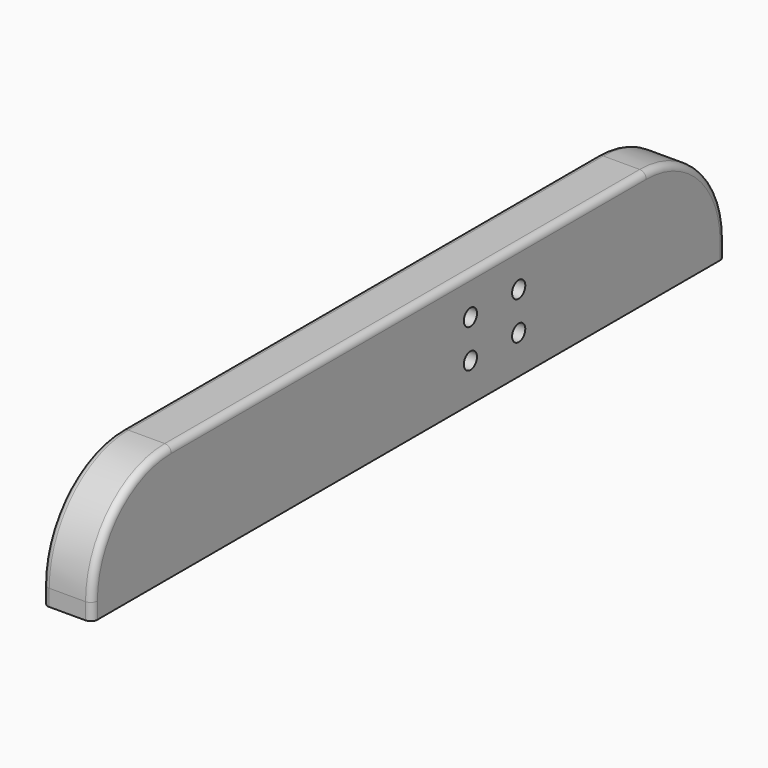
from build123d import *

# Parameters (mm, degrees)
F0_W     = 38.1
F0_H     = 88.9
F1_DEPTH = 609.6
F2_R     = 6.35
F3_DEPTH = 38.1
F4_R     = 76.2
F5_R     = 5.08


with BuildPart() as f1:
    # F0 (on Front) → F1 (new body)
    with BuildSketch(Plane.XZ):
        Rectangle(F0_W, F0_H)
    extrude(amount=-F1_DEPTH)

    # F2 (on face) → F3 (cut)
    with BuildSketch(Plane(origin=(-19.05, 0, 0), x_dir=(0, -1, 0), z_dir=(-1, 0, 0))):
        with Locations((-410.6418, 14.732)):
            Circle(F2_R)
        with Locations((-410.6418, -14.732)):
            Circle(F2_R)
        with Locations((-364.1598, 14.732)):
            Circle(F2_R)
        with Locations((-364.1598, -14.732)):
            Circle(F2_R)
    extrude(amount=-F3_DEPTH, mode=Mode.SUBTRACT)

    # F4
    f4_edges = [f1.edges().sort_by_distance(p)[0] for p in [
        (0, 609.6, 44.45),
        (0, 0, 44.45),
    ]]
    fillet(f4_edges, radius=F4_R)

    # F5
    f5_edges = [f1.edges().sort_by_distance(p)[0] for p in [
        (-19.05, 304.8, 44.45),
        (19.05, 304.8, 44.45),
    ]]
    fillet(f5_edges, radius=F5_R)


solid = f1.part
